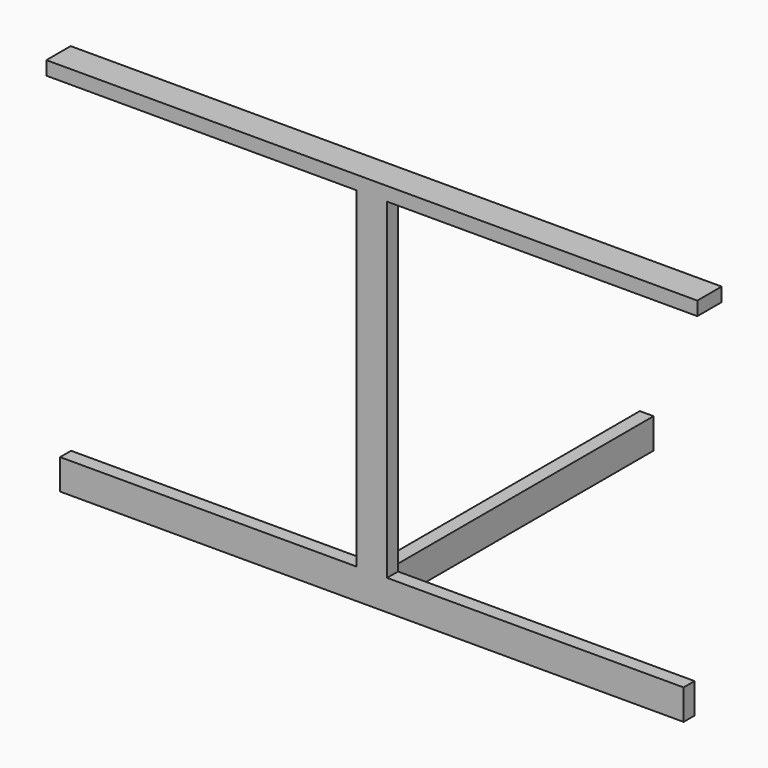
from build123d import *

# Parameters (mm, degrees)
F0_W     = 9.5
F0_H     = 42
F1_DEPTH = 19
F2_DEPTH = 456
F3_DEPTH = 23


with BuildPart() as f1:
    # F0 (on Front) → F1 (new body)
    with BuildSketch(Plane.XZ):
        Polygon((431, -229), (21, -229), (9.5, -229), (9.5, -271), (431, -271), align=None)
        Polygon((9.5, -229), (21, -229), (21, 229), (0, 229), (-21, 229), (-21, -229), (-9.5, -229), (0, -229), align=None)
        with Locations((4.75, -250)):
            Rectangle(F0_W, F0_H)
        Polygon((0, 229), (21, 229), (450, 229), (450, 248), (0, 248), align=None)
        with Locations((-4.75, -250)):
            Rectangle(F0_W, F0_H)
        Polygon((-21, 229), (0, 229), (0, 248), (-450, 248), (-450, 229), align=None)
        Polygon((-9.5, -271), (-9.5, -229), (-21, -229), (-431, -229), (-431, -271), align=None)
    extrude(amount=F1_DEPTH)

    # F0 (on Front) → F2 (join)
    with BuildSketch(Plane.XZ):
        with Locations((-4.75, -250)):
            Rectangle(F0_W, F0_H)
        with Locations((4.75, -250)):
            Rectangle(F0_W, F0_H)
    extrude(amount=-F2_DEPTH)

    # F0 (on Front) → F3 (join)
    with BuildSketch(Plane.XZ):
        Polygon((0, 229), (21, 229), (450, 229), (450, 248), (0, 248), align=None)
        Polygon((-21, 229), (0, 229), (0, 248), (-450, 248), (-450, 229), align=None)
    extrude(amount=-F3_DEPTH)


solid = f1.part
